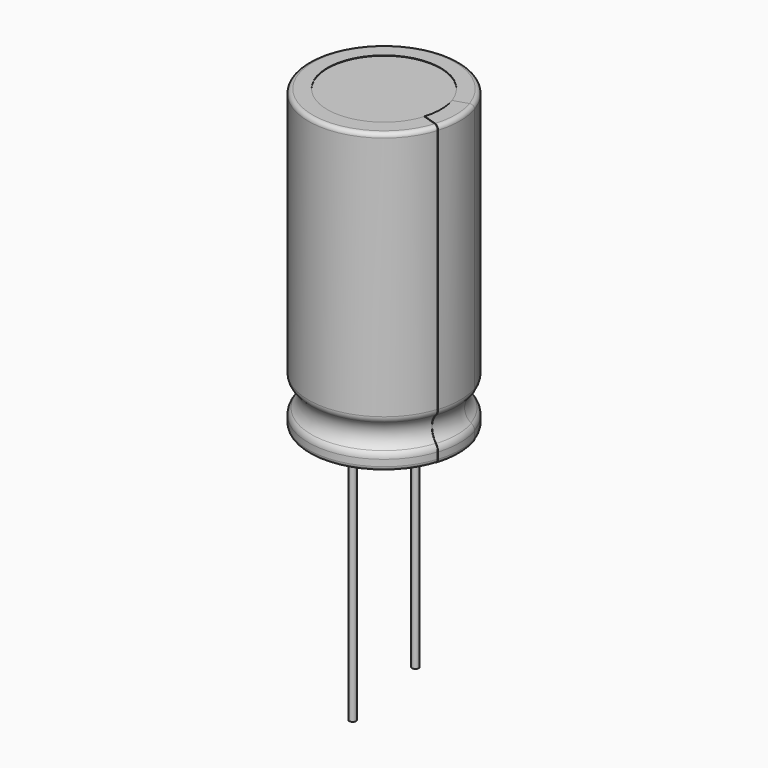
from build123d import *

# Parameters (mm, degrees)
SKETCH002_R         = 0.4
PAD_DEPTH           = 32
SKETCH003_R         = 0.4
PAD001_DEPTH        = 24
REVOLUTION001_ANGLE = -35
SKETCH005_R         = 7.2
PAD002_DEPTH        = 0.15


with BuildPart() as body:
    # Sketch → Revolution (revolve)
    with BuildSketch(Plane.YZ):
        with BuildLine():
            Line((0, 0), (8.5, 0))
            ThreePointArc((8.5, 0), (8.853553, 0.146447), (9, 0.5))
            Line((9, 0.5), (9, 1.263932))
            ThreePointArc((9, 1.263932), (8.912871, 1.67218), (8.666667, 2.009288))
            ThreePointArc((8.666667, 4.990712), (8, 3.5), (8.666667, 2.009288))
            ThreePointArc((8.666667, 4.990712), (8.912871, 5.32782), (9, 5.736068))
            Line((9, 5.736068), (9, 35))
            ThreePointArc((9, 35), (8.853553, 35.353553), (8.5, 35.5))
            Line((8.5, 35.5), (6.75, 35.5))
            Line((6.75, 35.5), (6.75, 35.3))
            Line((6.75, 35.3), (0, 35.3))
            Line((0, 35.3), (0, 0))
        make_face()
    revolve(axis=Axis((0, 0, 0), (0, 0, 1)))


with BuildPart() as obj1:
    # Sketch002 → Pad (new body)
    with BuildSketch(Plane.XY):
        with Locations((-3.75, 0)):
            Circle(SKETCH002_R)
    extrude(amount=-PAD_DEPTH)


with BuildPart() as obj2:
    # Sketch003 → Pad001 (new body)
    with BuildSketch(Plane.XY):
        with Locations((3.75, 0)):
            Circle(SKETCH003_R)
    extrude(amount=-PAD001_DEPTH)


with BuildPart() as body003:
    # Sketch004 → Revolution001 (revolve, symmetric)
    with BuildSketch(Plane.XZ) as revolution001_sk:
        with BuildLine():
            Line((0, 0), (8.55, 0))
            ThreePointArc((8.55, 0), (8.903553, 0.146447), (9.05, 0.5))
            Line((9.05, 0.5), (9.05, 1.263932))
            ThreePointArc((9.05, 1.263932), (8.962871, 1.67218), (8.716667, 2.009288))
            ThreePointArc((8.716667, 4.990712), (8.05, 3.5), (8.716667, 2.009288))
            ThreePointArc((8.716667, 4.990712), (8.962871, 5.32782), (9.05, 5.736068))
            Line((9.05, 5.736068), (9.05, 35.05))
            ThreePointArc((9.05, 35.05), (8.903553, 35.403553), (8.55, 35.55))
            Line((8.55, 35.55), (6.8, 35.55))
            Line((6.8, 35.55), (6.8, 35.35))
            Line((6.8, 35.35), (0, 35.35))
            Line((0, 35.35), (0, 0))
        make_face()
    revolve(axis=Axis((0, 0, 0), (0, 0, 1)), revolution_arc=REVOLUTION001_ANGLE / 2)
    revolve(revolution001_sk.sketch, axis=Axis((0, 0, 0), (0, 0, -1)), revolution_arc=REVOLUTION001_ANGLE / 2)


with BuildPart() as body004:
    # Sketch005 (on DatumPlane) → Pad002 (new body)
    with BuildSketch(Plane.XY.offset(35.3)):
        Circle(SKETCH005_R)
    extrude(amount=PAD002_DEPTH)


solid = Compound([body.part, obj1.part, obj2.part, body003.part, body004.part])
